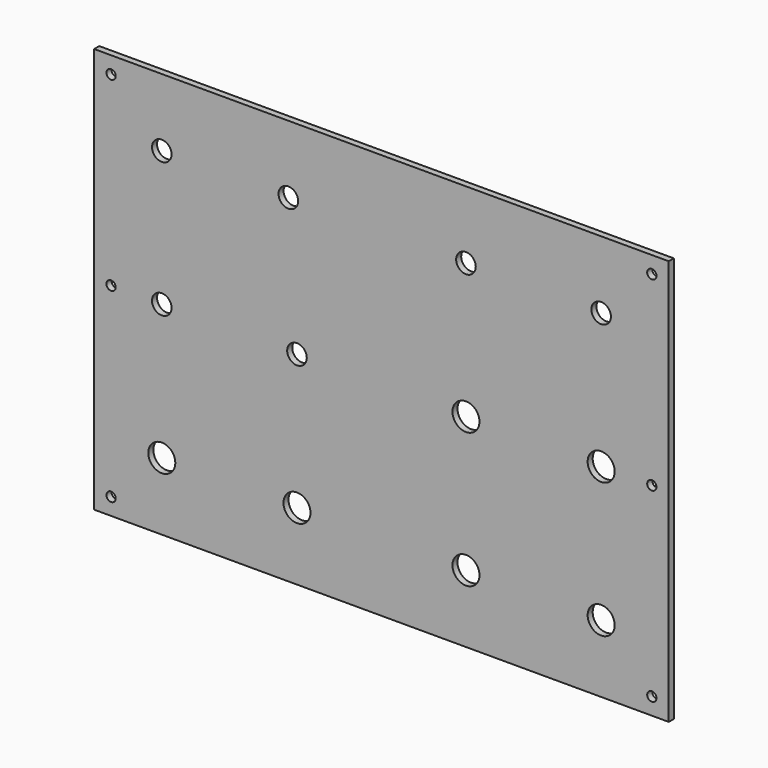
from build123d import *

# Parameters (mm, degrees)
F0_W     = 431.8
F0_H     = 304.8
F0_R     = 3.4925
F0_R_2   = 10.16
F0_R_3   = 7.366
F1_DEPTH = 4.7625


with BuildPart() as f1:
    # F0 (on Front) → F1 (new body)
    with BuildSketch(Plane.XZ):
        Rectangle(F0_W, F0_H)
        with Locations((-203.2, -139.7)):
            Circle(F0_R, mode=Mode.SUBTRACT)
        with Locations((-165.1, -101.6)):
            Circle(F0_R_2, mode=Mode.SUBTRACT)
        with Locations((-63.5, -101.6)):
            Circle(F0_R_2, mode=Mode.SUBTRACT)
        with Locations((63.5, -101.6)):
            Circle(F0_R_2, mode=Mode.SUBTRACT)
        with Locations((203.2, -139.7)):
            Circle(F0_R, mode=Mode.SUBTRACT)
        with Locations((165.1, -101.6)):
            Circle(F0_R_2, mode=Mode.SUBTRACT)
        with Locations((-203.2, 0)):
            Circle(F0_R, mode=Mode.SUBTRACT)
        with Locations((-165.1, 0)):
            Circle(F0_R_3, mode=Mode.SUBTRACT)
        with Locations((-63.5, 0)):
            Circle(F0_R_3, mode=Mode.SUBTRACT)
        with Locations((-165.1, 101.6)):
            Circle(F0_R_3, mode=Mode.SUBTRACT)
        with Locations((-203.2, 139.7)):
            Circle(F0_R, mode=Mode.SUBTRACT)
        with Locations((-69.9898, 101.6)):
            Circle(F0_R_3, mode=Mode.SUBTRACT)
        with Locations((63.5, 0)):
            Circle(F0_R_2, mode=Mode.SUBTRACT)
        with Locations((165.1, 0)):
            Circle(F0_R_2, mode=Mode.SUBTRACT)
        with Locations((203.2, 0)):
            Circle(F0_R, mode=Mode.SUBTRACT)
        with Locations((63.5, 101.6)):
            Circle(F0_R_3, mode=Mode.SUBTRACT)
        with Locations((165.1, 101.6)):
            Circle(F0_R_3, mode=Mode.SUBTRACT)
        with Locations((203.2, 139.7)):
            Circle(F0_R, mode=Mode.SUBTRACT)
    extrude(amount=F1_DEPTH)


solid = f1.part
